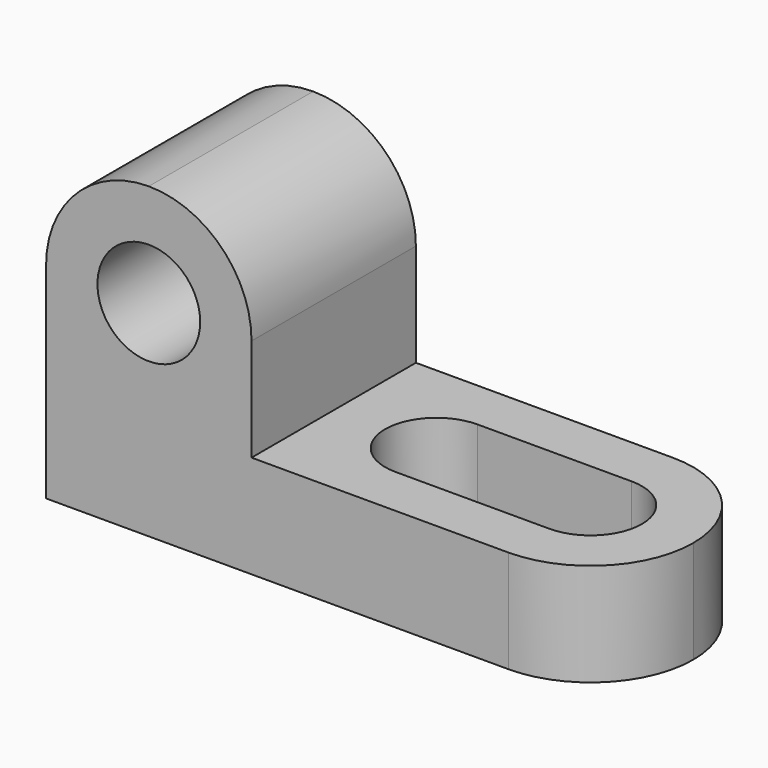
from build123d import *

# Parameters (mm, degrees)
F0_W     = 69.85
F0_H     = 38.1
F1_DEPTH = 25.4
F2_W     = 44.45
F2_H     = 25.4
F3_DEPTH = 25.4
F4_R     = 6.35
F5_DEPTH = 25.4
F7_DEPTH = 25.4


with BuildPart() as f1:
    # F0 (on Front) → F1 (new body)
    with BuildSketch(Plane.XZ):
        with Locations((-37.4512233195, 19.05)):
            Rectangle(F0_W, F0_H)
    extrude(amount=F1_DEPTH)

    # F2 (on face) → F3 (cut)
    with BuildSketch(Plane.XZ.offset(25.4)):
        with Locations((-24.7512233195, 25.4)):
            Rectangle(F2_W, F2_H)
    extrude(amount=-F3_DEPTH, mode=Mode.SUBTRACT)

    # F4 (on face) → F5 (cut)
    with BuildSketch(Plane.XZ.offset(25.4)):
        with BuildLine():
            ThreePointArc((-72.3762233195, 25.4), (-68.6564794405, 34.3802561211), (-59.6762233195, 38.1))
            Line((-59.6762233195, 38.1), (-72.3762233195, 38.1))
            Line((-72.3762233195, 38.1), (-72.3762233195, 25.4))
        make_face()
        with BuildLine():
            ThreePointArc((-59.6762233195, 38.1), (-50.6959671984, 34.3802561211), (-46.9762233195, 25.4))
            Line((-46.9762233195, 25.4), (-46.9762233195, 38.1))
            Line((-46.9762233195, 38.1), (-59.6762233195, 38.1))
        make_face()
        with Locations((-59.6762233195, 25.4)):
            Circle(F4_R)
    extrude(amount=-F5_DEPTH, mode=Mode.SUBTRACT)

    # F6 (on face) → F7 (cut)
    with BuildSketch(Plane.XY.offset(12.7)):
        with BuildLine():
            ThreePointArc((-2.5262233195, -12.7), (-6.2459671984, -21.6802561211), (-15.2262233195, -25.4))
            Line((-15.2262233195, -25.4), (-2.5262233195, -25.4))
            Line((-2.5262233195, -25.4), (-2.5262233195, -12.7))
        make_face()
        with BuildLine():
            ThreePointArc((-8.8762233195, -12.7), (-10.7360952589, -8.2098719395), (-15.2262233195, -6.35))
            ThreePointArc((-15.2262233195, -6.35), (-21.5762233195, -12.7), (-15.2262233195, -19.05))
            ThreePointArc((-15.2262233195, -19.05), (-10.7360952589, -17.1901280605), (-8.8762233195, -12.7))
        make_face()
        with BuildLine():
            ThreePointArc((-34.2762233195, -6.35), (-29.7860952589, -8.2098719395), (-27.9262233195, -12.7))
            ThreePointArc((-27.9262233195, -12.7), (-29.7860952589, -17.1901280605), (-34.2762233195, -19.05))
            Line((-34.2762233195, -19.05), (-15.2262233195, -19.05))
            ThreePointArc((-15.2262233195, -19.05), (-21.5762233195, -12.7), (-15.2262233195, -6.35))
            Line((-15.2262233195, -6.35), (-34.2762233195, -6.35))
        make_face()
        with BuildLine():
            ThreePointArc((-34.2762233195, -19.05), (-29.7860952589, -17.1901280605), (-27.9262233195, -12.7))
            ThreePointArc((-27.9262233195, -12.7), (-29.7860952589, -8.2098719395), (-34.2762233195, -6.35))
            ThreePointArc((-34.2762233195, -6.35), (-40.6262233195, -12.7), (-34.2762233195, -19.05))
        make_face()
        with BuildLine():
            ThreePointArc((-15.2262233195, 0), (-6.2459671984, -3.7197438789), (-2.5262233195, -12.7))
            Line((-2.5262233195, -12.7), (-2.5262233195, 0))
            Line((-2.5262233195, 0), (-15.2262233195, 0))
        make_face()
    extrude(amount=-F7_DEPTH, mode=Mode.SUBTRACT)


solid = f1.part
